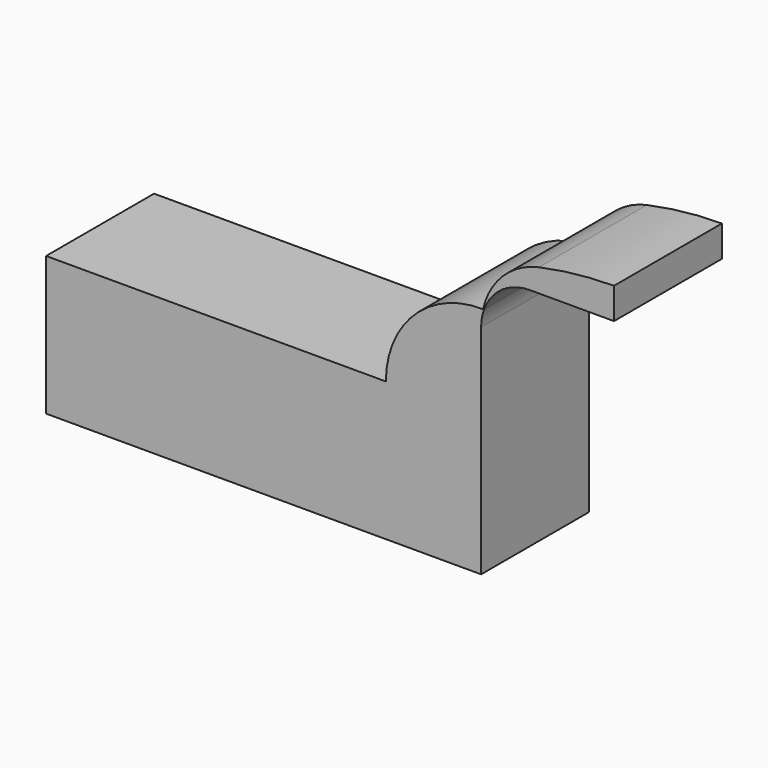
from build123d import *

# Parameters (mm, degrees)
F1_DEPTH = 25.4


with BuildPart() as f1:
    # F0 (on Front) → F1 (new body)
    with BuildSketch(Plane.XZ):
        Polygon((-5.4805049415, 43.8882187009), (-69.4460719824, 43.8882187009), (-69.4460719824, 17.7506506443), (12.4516431242, 17.7506506443), (12.4516431242, 43.8882187009), align=None)
        with BuildLine():
            ThreePointArc((12.8084794992, 61.8168160262), (-0.1015057146, 56.6937014517), (-5.4805049415, 43.8882187009))
            Line((-5.4805049415, 43.8882187009), (12.4516431242, 43.8882187009))
            Line((12.4516431242, 43.8882187009), (12.4516431242, 58.6995072663))
            ThreePointArc((12.4516431242, 58.6995072663), (12.5411425509, 60.2683401209), (12.8084794992, 61.8168160262))
        make_face()
        with BuildLine():
            ThreePointArc((23.3348449459, 72.183508426), (16.5668649609, 68.5281371373), (12.8084794992, 61.8168160262))
            ThreePointArc((12.8084794992, 61.8168160262), (12.9028776825, 61.8146885604), (12.9972633549, 61.81206407))
            ThreePointArc((12.9972633549, 61.81206407), (16.3462648739, 66.1901444716), (21.6024321989, 67.8502963409))
            Line((21.6024321989, 67.8502963409), (37.4638475478, 67.8502963409))
            Line((37.4638475478, 67.8502963409), (37.4638475478, 73.7137471339))
            ThreePointArc((37.4638475478, 73.7137471339), (30.3592257705, 73.3190682295), (23.3348449459, 72.183508426))
        make_face()
        with BuildLine():
            ThreePointArc((12.9972633549, 61.81206407), (12.9028776825, 61.8146885604), (12.8084794992, 61.8168160262))
            ThreePointArc((12.8084794992, 61.8168160262), (12.5411425509, 60.2683401209), (12.4516431242, 58.6995072663))
            ThreePointArc((12.4516431242, 58.6995072663), (12.5890802771, 60.279516071), (12.9972633549, 61.81206407))
        make_face()
    extrude(amount=F1_DEPTH)


solid = f1.part
